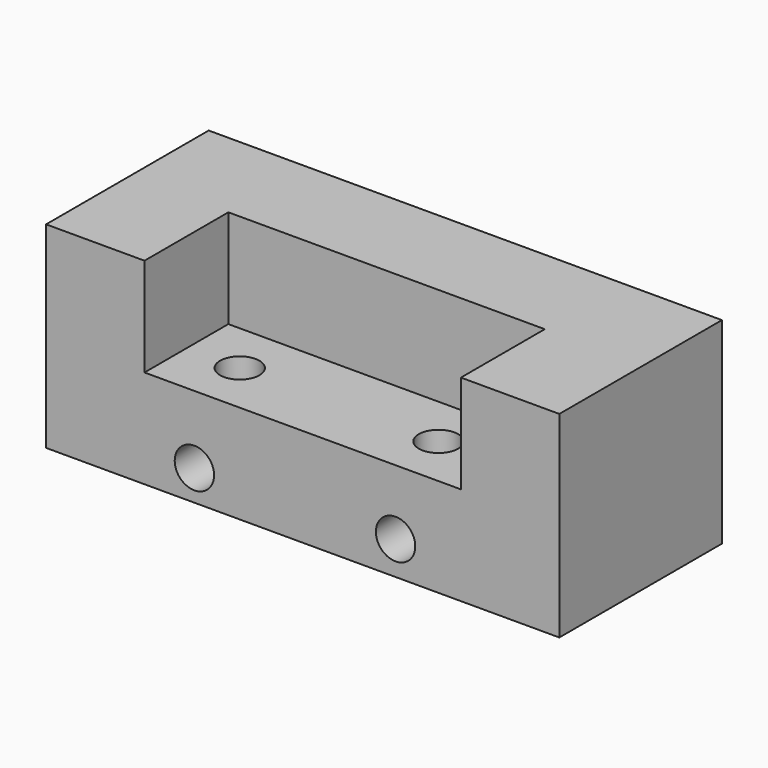
from build123d import *

# Parameters (mm, degrees)
F0_W     = 132.4668824673
F0_H     = 52.4568893015
F1_DEPTH = 25.4
F2_DEPTH = 25.4
F3_T     = -25.4
F5_D     = 10.16
F5_DEPTH = 22.86
F5_TIP   = 3.0523719447
F7_D     = 10.16
F7_DEPTH = 10.16
F7_TIP   = 3.0523719447


with BuildPart() as f1:
    # F0 (on Top) → F1 (new body)
    with BuildSketch(Plane.XY):
        Rectangle(F0_W, F0_H)
    extrude(amount=F1_DEPTH)

    # F2 (add): a face of the model
    f2_faces = [f1.faces().sort_by_distance(p)[0] for p in [
        (0, 0, 0),
    ]]
    extrude(f2_faces, amount=F2_DEPTH)

    # F3
    f3_openings = [f1.faces().sort_by_distance(p)[0] for p in [
        (0, 0, 25.4),
        (0, -26.228445, 0),
    ]]
    offset(amount=F3_T, openings=f3_openings)

    # F5
    with Locations(Plane.XY):
        with Locations((24.2279376835, -12.7), (-27.0736590028, -12.7)):
            Hole(F5_D / 2, depth=F5_DEPTH)
            with Locations((0, 0, -(F5_DEPTH + F5_TIP / 2))):  # 118° drill point
                Cone(0, F5_D / 2, F5_TIP, mode=Mode.SUBTRACT)

    # F7
    with Locations(Plane.XZ.offset(26.2284446508)):
        with Locations((-27.9565155506, -17.5159424543), (23.9731557667, -16.771344468)):
            Hole(F7_D / 2, depth=F7_DEPTH)
            with Locations((0, 0, -(F7_DEPTH + F7_TIP / 2))):  # 118° drill point
                Cone(0, F7_D / 2, F7_TIP, mode=Mode.SUBTRACT)


solid = f1.part
